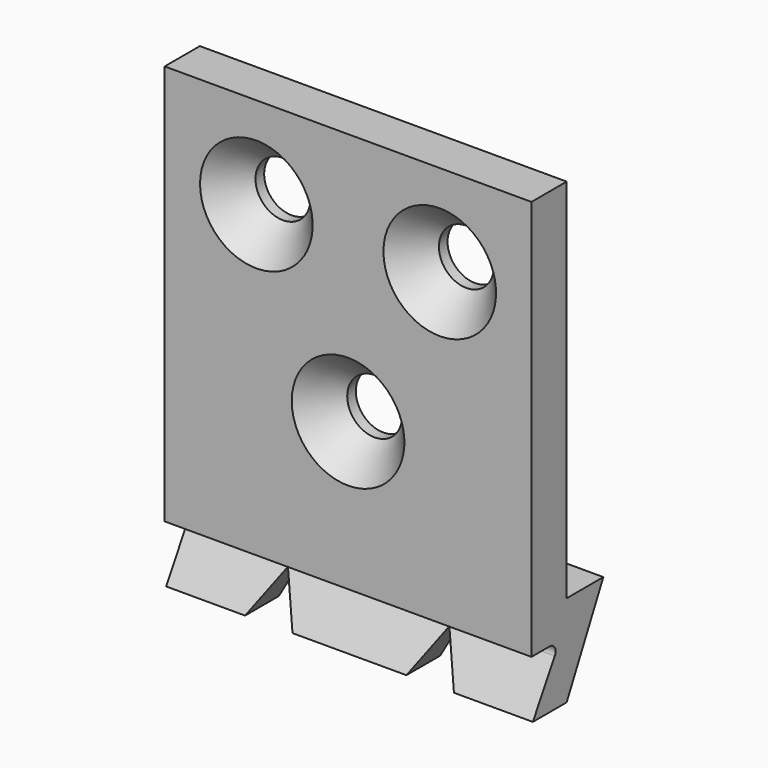
from build123d import *

# Parameters (mm, degrees)
F1_DEPTH       = 12.7
F3_D           = 3.7973
F3_CSINK_D     = 7.7978
F3_CSINK_ANGLE = 82
F4_W           = 8.128
F4_H           = 9.6413786206
F4_H_2         = 9.652
F5_DEPTH       = 25.4
F7_DEPTH       = 12.7
F9_DEPTH       = 25.4
F11_DEPTH      = 25.4


with BuildPart() as f1:
    # F0 (on Right) → F1 (new body, symmetric)
    with BuildSketch(Plane.YZ):
        Polygon((0, 6.35), (0, 31.75), (-3.048, 31.75), (-3.048, 0), (0, 0), (3.175, 6.35), align=None)
    extrude(amount=F1_DEPTH, both=True)

    # F3 (through all)
    with Locations(Plane.XZ.offset(3.048)):
        with Locations((-6.35, 25.4), (6.35, 25.4), (0, 14.224)):
            CounterSinkHole(F3_D / 2, F3_CSINK_D / 2, counter_sink_angle=F3_CSINK_ANGLE)

    # F4 (on face) → F5 (cut)
    with BuildSketch(Plane(origin=(0, 0, 0), x_dir=(-1, 0, 0), z_dir=(0, 1, 0))):
        with Locations((-5.588, -1.5186893103)):
            Rectangle(F4_W, F4_H)
        with Locations((5.588, -1.5133786206)):
            Rectangle(F4_W, F4_H_2)
    extrude(amount=F5_DEPTH, mode=Mode.SUBTRACT)

    # F6 (on Right) → F7 (cut, symmetric)
    with BuildSketch(Plane.YZ):
        with BuildLine():
            Line((-1.4666680983, 4.0132), (-4.4497507624, 4.0132))
            Line((-4.4497507624, 4.0132), (-4.4497507624, 0))
            Line((-4.4497507624, 0), (-2.9257507624, 0))
            Line((-2.9257507624, 0), (-1.0280151601, 3.2489821244))
            ThreePointArc((-1.0280151601, 3.2489821244), (-1.0260874129, 3.7580886308), (-1.4666680983, 4.0132))
        make_face()
    extrude(amount=F7_DEPTH, both=True, mode=Mode.SUBTRACT)

    # F8 (on Front) → F9 (cut)
    with BuildSketch(Plane.XZ):
        Polygon((0.088738686, -6.674986371), (11.087261314, -6.674986371), (5.588, 2.850013629), align=None)
    extrude(amount=F9_DEPTH, mode=Mode.SUBTRACT)

    # F10 (on face) → F11 (cut)
    with BuildSketch(Plane(origin=(0, 0, 0), x_dir=(-1, 0, 0), z_dir=(0, 1, 0))):
        Polygon((0.088738686, -6.6802), (11.087261314, -6.6802), (5.588, 2.8448), align=None)
    extrude(amount=-F11_DEPTH, mode=Mode.SUBTRACT)


solid = f1.part
